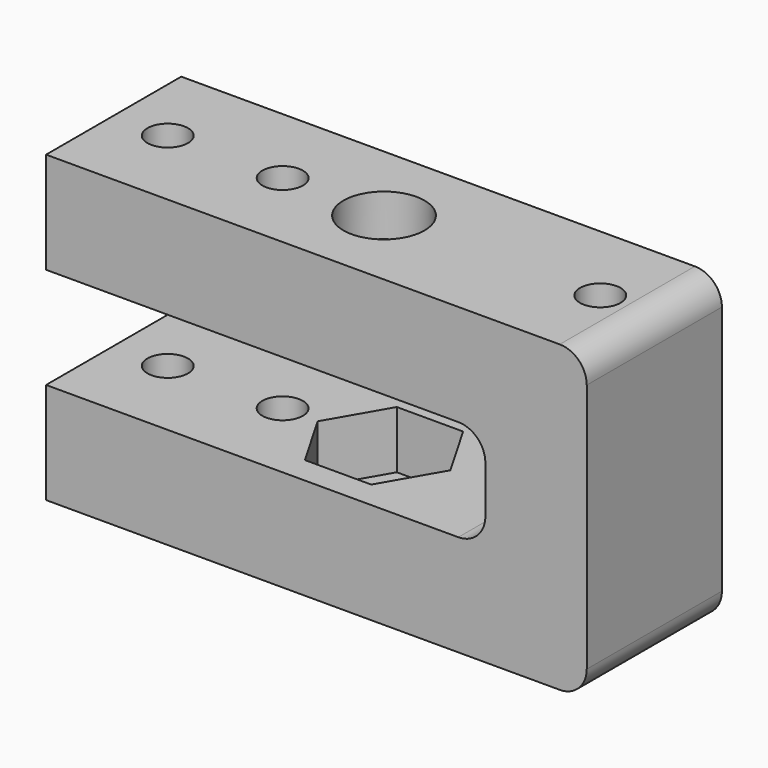
from build123d import *

# Parameters (mm, degrees)
F1_DEPTH = 25
F2_R     = 6
F2_R_2   = 3
F3_DEPTH = 45.001
F4_R     = 6
F5_DEPTH = 8.8
F6_R     = 6
F7_DEPTH = 8.5
F8_R     = 4


with BuildPart() as f1:
    # F0 (on Front) → F1 (new body)
    with BuildSketch(Plane.XZ):
        Polygon((0, 15), (0, 0), (80, 0), (80, 45), (0, 45), (0, 30), (65, 30), (65, 15), align=None)
    extrude(amount=F1_DEPTH)

    # F2 (on face) → F3 (cut, through all)
    with BuildSketch(Plane.XY.offset(45)):
        with Locations((40, -12.5)):
            Circle(F2_R)
        with Locations((8, -12.5)):
            Circle(F2_R_2)
        with Locations((25, -12.5)):
            Circle(F2_R_2)
        with Locations((72, -12.5)):
            Circle(F2_R_2)
    extrude(amount=-F3_DEPTH, mode=Mode.SUBTRACT)

    # F4 (on face) → F5 (cut)
    with BuildSketch(Plane(origin=(0, 0, 30), x_dir=(1, 0, 0), z_dir=(0, 0, -1))):
        Polygon((35.092523, 4), (44.907477, 4), (49.814955, 12.5), (44.907477, 21), (35.092523, 21), (30.185045, 12.5), align=None)
        with Locations((40, 12.5)):
            Circle(F4_R, mode=Mode.SUBTRACT)
    extrude(amount=-F5_DEPTH, mode=Mode.SUBTRACT)

    # F6 (on face) → F7 (cut)
    with BuildSketch(Plane.XY.offset(15)):
        Polygon((35.092523, -21), (44.907477, -21), (49.814955, -12.5), (44.907477, -4), (35.092523, -4), (30.185045, -12.5), align=None)
        with Locations((40, -12.5)):
            Circle(F6_R, mode=Mode.SUBTRACT)
    extrude(amount=-F7_DEPTH, mode=Mode.SUBTRACT)

    # F8
    f8_edges = [f1.edges().sort_by_distance(p)[0] for p in [
        (80, -12.5, 45),
        (80, -12.5, 0),
        (65, -12.5, 30),
        (65, -12.5, 15),
    ]]
    fillet(f8_edges, radius=F8_R)


solid = f1.part
